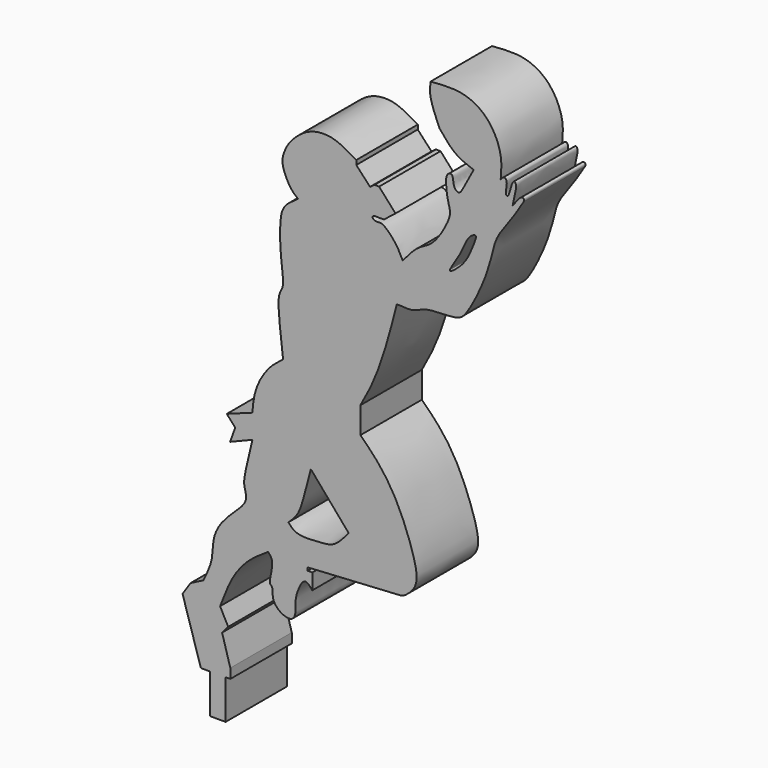
from build123d import *

# Parameters (mm, degrees)
F0_W     = 1.2838058174
F0_H     = 3.2482598908
F1_DEPTH = 6.34


with BuildPart() as f1:
    # F0 (on Front) → F1 (new body)
    with BuildSketch(Plane.XZ):
        with BuildLine():
            Line((-24.7270520777, 0), (-24.3388339877, 0))
            Line((-24.3388339877, 0), (-24.3388339877, 0.7970914594))
            Line((-24.3388339877, 0.7970914594), (-25.0160992146, 3.144847462))
            Line((-25.0160992146, 3.144847462), (-24.513008073, 3.7317867391))
            Line((-24.513008073, 3.7317867391), (-25.1837968826, 5.0104749389))
            add(Edge.make_bspline(
                [(-25.1837968826, 5.0104749389), (-24.9360081786, 5.6741353226), (-24.4357106392, 7.0140981684), (-23.2134845461, 8.9271097869), (-21.8935571427, 9.804547742), (-21.2219581008, 10.2510014549)],
                knots=[0, 0, 0, 0, 0.3252376136, 0.6566706842, 1, 1, 1, 1], degree=3))
            add(Edge.make_bspline(
                [(-21.2219581008, 10.2510014549), (-21.0901365451, 10.1096641545), (-20.7564481574, 9.7518879497), (-20.9420060501, 8.8873933191), (-21.0542604327, 8.3644120023)],
                knots=[0, 0, 0, 0, 0.3950438807, 1, 1, 1, 1], degree=3))
            add(Edge.make_bspline(
                [(-21.0542604327, 8.3644120023), (-21.0746916015, 8.2334603255), (-21.1139412331, 7.9818934616), (-20.782998182, 7.775018596), (-20.9588297453, 6.897391144), (-20.1360697678, 6.0250570271), (-19.1385099102, 5.8786512681), (-18.8957448786, 6.6520435976), (-19.0042244643, 7.5594762592), (-18.7315711547, 8.3390252117), (-18.4126827926, 9.0264007435), (-18.0163530026, 9.1603561942), (-17.7391736552, 8.8319596785), (-17.5745524466, 8.6369197816)],
                knots=[0, 0, 0, 0, 0.0670491803, 0.1288059261, 0.2280104688, 0.348130045, 0.4499511069, 0.5403040407, 0.6481866536, 0.751703796, 0.8471953323, 0.9092468854, 1, 1, 1, 1], degree=3))
            Line((-17.5745524466, 8.6369197816), (-17.5745524466, 9.9365701899))
            Line((-17.5745524466, 9.9365701899), (-17.9518684745, 9.9365701899))
            Line((-17.9518684745, 9.9365701899), (-17.9518684745, 10.1881157607))
            add(Edge.make_bspline(
                [(-17.9518684745, 10.1881157607), (-14.9611926135, 10.3761266988), (-10.9668609879, 10.6272331614), (-10.0272173773, 10.6181343012), (-9.2649407414, 11.3261649448), (-8.9227619802, 11.9964495578), (-8.9569521809, 13.3593063975), (-10.4444418479, 17.4355320158), (-12.1291734083, 19.7599773705), (-13.1443285433, 20.7595342525), (-13.5990902781, 21.2073083967)],
                knots=[0, 0, 0, 0, 0.2284943146, 0.3051758564, 0.3871193866, 0.4587194294, 0.5545429642, 0.7323994228, 0.8801222606, 1, 1, 1, 1], degree=3))
            Line((-13.5990902781, 21.2073083967), (-13.5990902781, 23.3836956322))
            add(Edge.make_bspline(
                [(-13.5990902781, 23.3836956322), (-13.2033688275, 24.1037593733), (-12.3539144424, 25.6494458691), (-11.31689474, 28.8723710038), (-10.8302038167, 30.7818394577), (-10.595257394, 31.7036211491)],
                knots=[0, 0, 0, 0, 0.3108790653, 0.6673319952, 1, 1, 1, 1], degree=3))
            add(Edge.make_bspline(
                [(-10.595257394, 31.7036211491), (-10.1110306796, 31.6648612587), (-9.2582558661, 31.596600964), (-8.5287621138, 32.0266146808), (-7.6495829588, 32.2371133725), (-5.7033050727, 32.2150335985), (-4.7650617943, 32.7225411848), (-2.82354789, 36.7945701691), (-2.597154675, 39.0991846287), (-1.2402045822, 40.7626985253), (-0.2492331373, 42.3077892144), (-0.1423464776, 42.5132639691), (-0.1132035904, 42.5692871213)],
                knots=[0, 0, 0, 0, 0.0940394263, 0.1656134448, 0.2435730705, 0.3541324227, 0.4366735821, 0.6055714206, 0.7325283373, 0.8515676174, 0.9595295784, 1, 1, 1, 1], degree=3))
            add(Edge.make_bspline(
                [(-0.1132035904, 42.5692871213), (-0.1003636923, 42.6366066025), (-0.0752103797, 42.7684852148), (-0.3543109772, 42.9211913938), (-0.7515646832, 42.3587559131), (-1.0386189679, 41.952341795)],
                knots=[0, 0, 0, 0, 0.2243636889, 0.439527629, 1, 1, 1, 1], degree=3))
            add(Edge.make_bspline(
                [(-1.0386189679, 41.952341795), (-0.9736782471, 42.2706619918), (-0.8547625104, 42.8535517457), (-0.6928613783, 43.5026749394), (-0.8517279488, 43.8127040158), (-1.1271709596, 43.6779826131), (-1.3174152243, 42.4894717547), (-1.6180996863, 42.5458357072), (-1.5833200601, 43.0215215774), (-1.4606054455, 43.5606056294), (-1.7152937452, 43.9241798123), (-1.9818597463, 43.6122534582), (-2.020279035, 43.5515888711)],
                knots=[0, 0, 0, 0, 0.1424609926, 0.2608664287, 0.3337120561, 0.3998727312, 0.5556997632, 0.6087583096, 0.7035147058, 0.8165826466, 0.8955684995, 0.9714405932, 0.9714405932, 0.9714405932, 0.9714405932], degree=3))
            add(Edge.make_bspline(
                [(-2.020279035, 43.5515888711), (-1.9665285121, 44.1123177218), (-1.8541061859, 45.3364950253), (-2.8477834926, 47.6467559763), (-5.0376424509, 49.0147104675), (-6.8688723955, 48.8617156035), (-7.8143300489, 48.7827248871)],
                knots=[0.0029970787, 0.0029970787, 0.0029970787, 0.0029970787, 0.2184070775, 0.4726180675, 0.7277145419, 1, 1, 1, 1], degree=3))
            add(Edge.make_bspline(
                [(-7.8143300489, 48.7827248871), (-7.8507529076, 48.4422228487), (-7.9387601427, 47.6194800991), (-7.3888212886, 46.3568859306), (-7.0664812811, 45.6168316305)],
                knots=[0, 0, 0, 0, 0.4138620956, 1, 1, 1, 1], degree=3))
            add(Edge.make_bspline(
                [(-7.0664812811, 45.6168316305), (-6.6613584947, 45.1074383398), (-5.8737974291, 44.117174804), (-4.780492047, 43.7207079212), (-4.2495848611, 43.5281842947)],
                knots=[0, 0, 0, 0, 0.5144017449, 1, 1, 1, 1], degree=3))
            add(Edge.make_bspline(
                [(-4.2495848611, 43.5281842947), (-4.5619915954, 42.9534198697), (-5.0558196294, 42.0448774), (-5.41250772, 41.3341307741), (-5.9812565726, 41.6997117478), (-5.9061742233, 42.6807233221), (-6.380410982, 42.596358722), (-6.6073441847, 42.1601401182), (-6.4313236991, 40.6855794056), (-6.1827621395, 39.9826288637), (-6.1955064747, 39.2634496731), (-7.5036219379, 36.9207808558), (-8.854117564, 36.5339075867), (-9.6691855261, 35.5511064846), (-10.1077323779, 35.0223109126)],
                knots=[0, 0, 0, 0, 0.1119279025, 0.1769268392, 0.2339052836, 0.3106103021, 0.3544268132, 0.4099501071, 0.5116087093, 0.5837675437, 0.6526256891, 0.7854093038, 0.8845395984, 1, 1, 1, 1], degree=3))
            add(Edge.make_bspline(
                [(-10.1077323779, 35.0223109126), (-10.2705796422, 35.3561502748), (-10.5889407858, 36.0087954487), (-11.2393623031, 36.7259988109), (-11.8728944317, 37.2689992422), (-12.2956483708, 37.0874457652), (-12.7194543154, 37.358054616), (-12.4546408787, 37.5346485539), (-12.3703827539, 37.5172919613), (-12.3336100951, 37.5097170472)],
                knots=[0, 0, 0, 0, 0.2112581739, 0.4130029087, 0.5875083013, 0.7187316843, 0.837616589, 0.9291312289, 1, 1, 1, 1], degree=3))
            Line((-12.3336100951, 37.5097170472), (-11.657868512, 37.5097170472))
            Line((-11.657868512, 37.5097170472), (-10.7043618336, 38.2591448724))
            Line((-10.7043618336, 38.2591448724), (-12.0572019368, 39.7684946656))
            Line((-12.0572019368, 39.7684946656), (-12.4435899779, 39.7684946656))
            Line((-12.4435899779, 39.7684946656), (-12.805050239, 39.5067483187))
            Line((-12.805050239, 39.5067483187), (-13.9392875135, 40.7282337546))
            Line((-13.9392875135, 40.7282337546), (-13.9392875135, 41.089694947))
            add(Edge.make_bspline(
                [(-13.9392875135, 41.089694947), (-14.4461682119, 41.3871259071), (-15.3720742057, 41.9304354267), (-16.5213175434, 42.1979800186), (-18.0824872105, 41.9724518701), (-19.5553919349, 40.5983188078), (-19.9595301976, 39.5915201061), (-20.1423742983, 38.7638365322), (-19.3959442952, 37.184917634), (-18.9306018668, 36.8458587083), (-18.7402125448, 36.70713678)],
                knots=[0, 0, 0, 0, 0.141878518, 0.2591658562, 0.3944857119, 0.5485036413, 0.6606791704, 0.7598867851, 0.9017605329, 1, 1, 1, 1], degree=3))
            add(Edge.make_bspline(
                [(-18.7402125448, 36.70713678), (-19.1329017208, 36.4440694725), (-19.8867619347, 35.9390492457), (-20.2817393211, 34.8426665428), (-20.2116518829, 32.2859479629), (-20.0202430129, 31.0075655902), (-19.9352758712, 29.8826015832), (-20.324975533, 29.3688097583), (-20.4088811201, 28.187460033), (-20.1524134917, 26.0423349634), (-19.9851039797, 24.642938748)],
                knots=[0, 0, 0, 0, 0.1186859401, 0.2278458731, 0.3914845202, 0.5136810281, 0.6179408881, 0.6957701582, 0.8015322765, 1, 1, 1, 1], degree=3))
            add(Edge.make_bspline(
                [(-19.9851039797, 24.642938748), (-20.357725577, 24.3569222202), (-21.126594804, 23.7667543174), (-22.0238119107, 22.3962993632), (-22.4303447276, 21.0859143373), (-22.4851585096, 20.310308241), (-22.5112698972, 19.9408363551)],
                knots=[0, 0, 0, 0, 0.2545852253, 0.5253123995, 0.773875265, 1, 1, 1, 1], degree=3))
            Line((-22.5112698972, 19.9408363551), (-24.6301740408, 19.1680584103))
            Line((-24.6301740408, 19.1680584103), (-23.9321812987, 18.3952823281))
            Line((-23.9321812987, 18.3952823281), (-24.3559628725, 17.2236524522))
            Line((-24.3559628725, 17.2236524522), (-22.5112698972, 17.9715007544))
            add(Edge.make_bspline(
                [(-22.5112698972, 17.9715007544), (-22.6353880049, 17.4325963973), (-22.8830055361, 16.3574739274), (-23.3091109183, 14.640788089), (-23.0386866004, 13.9746135037), (-23.0010088415, 13.1897398016), (-23.9721242046, 12.2852223294), (-25.2033372464, 11.0808142199), (-25.8290548715, 9.6927148626), (-25.7389786836, 8.1139038165), (-26.2878638802, 7.0114455504), (-26.576468721, 6.4317709766)],
                knots=[0, 0, 0, 0, 0.1246030257, 0.2485849503, 0.3270840375, 0.4049838987, 0.511883369, 0.6380827892, 0.7530683094, 0.8701628652, 1, 1, 1, 1], degree=3))
            Line((-26.576468721, 6.4317709766), (-27.608923614, 5.9099472128))
            Line((-27.608923614, 5.9099472128), (-28.279710561, 4.9037667923))
            Line((-28.279710561, 4.9037667923), (-26.7704389989, 0))
            Line((-26.7704389989, 0), (-26.010857895, 0))
            Line((-26.010857895, 0), (-24.7270520777, 0))
        make_face()
        with BuildLine():
            add(Edge.make_bspline(
                [(-17.6875814795, 17.4041632563), (-17.8855119591, 16.6567795652), (-18.2462715079, 15.2945547892), (-18.6557148813, 13.7887608441), (-19.2610405105, 13.2122121388), (-19.5447392762, 12.9420002922)],
                knots=[0, 0, 0, 0, 0.392417983, 0.7152437301, 1, 1, 1, 1], degree=3))
            add(Edge.make_bspline(
                [(-14.5715456456, 13.7770976871), (-15.6102242569, 14.9861195435), (-16.6489028682, 16.1951413999), (-17.6875814795, 17.4041632563)],
                knots=[0, 0, 0, 0, 4.7817657786, 4.7817657786, 4.7817657786, 4.7817657786], degree=3))
            add(Edge.make_bspline(
                [(-19.5447392762, 12.9420002922), (-19.3429982882, 12.717696593), (-18.8587676057, 12.1793095528), (-16.9300473979, 12.3373523912), (-15.6914707042, 12.4223998147), (-14.964088778, 13.3022647131), (-14.5715456456, 13.7770976871)],
                knots=[0, 0, 0, 0, 0.2046302418, 0.4911656411, 0.7253995103, 1, 1, 1, 1], degree=3))
        make_face(mode=Mode.SUBTRACT)
        with BuildLine():
            add(Edge.make_bspline(
                [(-4.0960782208, 38.7876294553), (-4.1742304679, 38.8526393175), (-4.8308244208, 38.479212487), (-5.0928360866, 37.2806066316), (-6.8323814657, 34.9407080776), (-4.9096578014, 36.4415356323), (-4.4172231063, 37.7129399412), (-3.9967872385, 38.7050356297), (-4.0960782208, 38.7876294553)],
                knots=[0, 0, 0, 0, 0.1113740132, 0.2938161584, 0.4943102113, 0.6625548891, 0.8585013793, 1, 1, 1, 1], degree=3))
        make_face(mode=Mode.SUBTRACT)
        with BuildLine():
            add(Edge.make_bspline(
                [(-2.020279035, 43.5515888711), (-2.0278036087, 43.5397074654), (-2.0354691998, 43.5236668469), (-2.0267202042, 43.5267198241), (-2.022523433, 43.5281842947)],
                knots=[0.9714405932, 0.9714405932, 0.9714405932, 0.9714405932, 0.9863004508, 1, 1, 1, 1], degree=3))
            add(Edge.make_bspline(
                [(-2.022523433, 43.5281842947), (-2.0217751594, 43.5359857693), (-2.0210268859, 43.543787244), (-2.020279035, 43.5515888711)],
                knots=[0, 0, 0, 0, 0.0029970787, 0.0029970787, 0.0029970787, 0.0029970787], degree=3))
        make_face(mode=Mode.SUBTRACT)
        with Locations((-25.3689549863, -1.6241299454)):
            Rectangle(F0_W, F0_H)
        with BuildLine():
            add(Edge.make_bspline(
                [(-2.022523433, 43.5281842947), (-2.0217751594, 43.5359857693), (-2.0210268859, 43.543787244), (-2.020279035, 43.5515888711)],
                knots=[0, 0, 0, 0, 0.0029970787, 0.0029970787, 0.0029970787, 0.0029970787], degree=3))
            add(Edge.make_bspline(
                [(-2.020279035, 43.5515888711), (-2.0278036087, 43.5397074654), (-2.0354691998, 43.5236668469), (-2.0267202042, 43.5267198241), (-2.022523433, 43.5281842947)],
                knots=[0.9714405932, 0.9714405932, 0.9714405932, 0.9714405932, 0.9863004508, 1, 1, 1, 1], degree=3))
        make_face()
    extrude(amount=F1_DEPTH)


solid = f1.part
